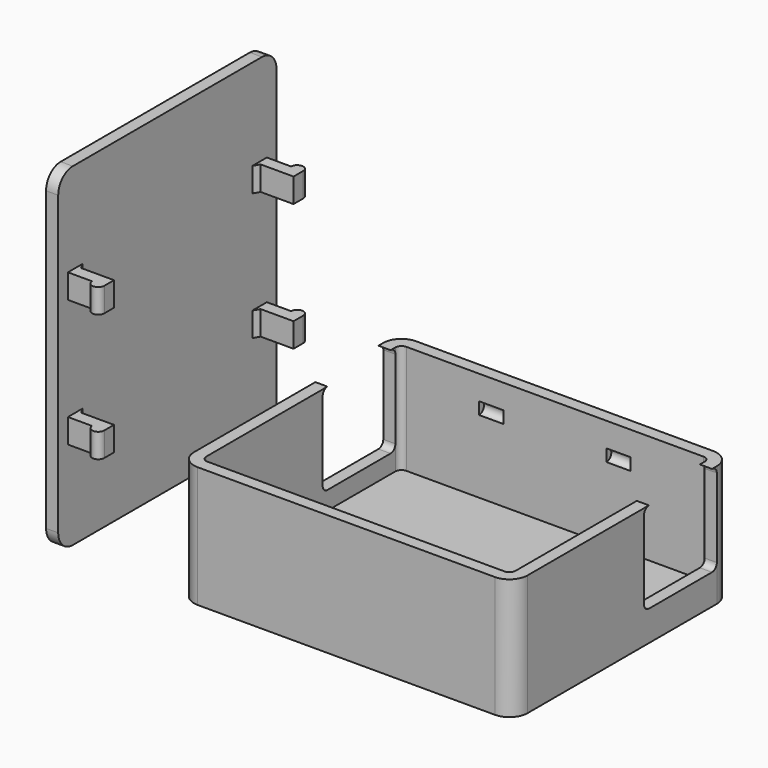
from build123d import *

# Parameters (mm, degrees)
BOX003_W                  = 2
BOX003_H                  = 4
BOX003_DEPTH              = 6
CYLINDER_R                = 1
CYLINDER_DEPTH            = 4
CYLINDER_ROLL_ANGLE       = 90
PRISM_DEPTH               = 4
PRISM_ROLL_ANGLE          = 90
FUSION001_ROLL_ANGLE      = 180
FUSION001_PLACEMENT_ANGLE = 90
CLONE001_PLACEMENT_ANGLE  = 180
CLONE002_PLACEMENT_ANGLE  = 180
BOX_W                     = 55
BOX_H                     = 45
BOX_DEPTH                 = 2
FILLET_R                  = 3
FUSION002_PITCH_ANGLE     = -90
BOX002_W                  = 60
BOX002_H                  = 15
BOX002_DEPTH              = 15
FILLET002_R               = 1
BOX001_W                  = 55
BOX001_H                  = 45
BOX001_DEPTH              = 20
FILLET001_R               = 3
THICKNESS_T               = -2


with BuildPart() as cube003:
    # Box003 → Box003 (new body)
    with BuildSketch(Plane.XY):
        with Locations((1, 2)):
            Rectangle(BOX003_W, BOX003_H)
    extrude(amount=BOX003_DEPTH)


with BuildPart() as fusion:
    # Cylinder → Cylinder (new body)
    with BuildSketch(Plane.XY):
        Circle(CYLINDER_R)
    extrude(amount=CYLINDER_DEPTH)


with BuildPart() as fusion_1:
    # Cylinder roll: moved
    add(fusion.part.rotate(Axis((0, 0, 0), (1, 0, 0)), CYLINDER_ROLL_ANGLE))


with BuildPart() as fusion_2:
    # Cylinder placement: moved
    add(fusion_1.part.moved(Location((0, 4, 5))))

    # Fusion: union Cube003
    add(cube003.part)


with BuildPart() as flange01:
    # Prism → Prism (new body)
    with BuildSketch(Plane.XY):
        Polygon((1, 0), (-0.5, 0.866025), (-0.5, -0.866025), align=None)
    extrude(amount=PRISM_DEPTH)


with BuildPart() as flange01_1:
    # Prism roll: moved
    add(flange01.part.rotate(Axis((0, 0, 0), (1, 0, 0)), PRISM_ROLL_ANGLE))


with BuildPart() as flange01_2:
    # Prism placement: moved
    add(flange01_1.part.moved(Location((2, 4, 0))))

    # Fusion001: union Fusion
    add(fusion_2.part)


with BuildPart() as flange01_3:
    # Fusion001 roll: moved
    add(flange01_2.part.rotate(Axis((0, 0, 0), (1, 0, 0)), FUSION001_ROLL_ANGLE))


with BuildPart() as flange01_4:
    # Fusion001 placement: moved
    add(flange01_3.part.moved(Location((15, 2, 20))).rotate(Axis((15, 2, 20), (0, 0, 1)), FUSION001_PLACEMENT_ANGLE))


with BuildPart() as flange02:
    # Clone base: copy of flange01
    add(flange01_4.part)


with BuildPart() as flange02_1:
    # Clone placement: moved
    add(flange02.part.moved(Location((21, 0, 0))))


with BuildPart() as flange03:
    # Clone001 base: copy of flange01
    add(flange01_4.part)


with BuildPart() as flange03_1:
    # Clone001 placement: moved
    add(flange03.part.moved(Location((34, 45, 0))).rotate(Axis((34, 45, 0), (0, 0, 1)), CLONE001_PLACEMENT_ANGLE))


with BuildPart() as flange04:
    # Clone002 base: copy of flange02
    add(flange02_1.part)


with BuildPart() as flange04_1:
    # Clone002 placement: moved
    add(flange04.part.moved(Location((76, 45, 0))).rotate(Axis((76, 45, 0), (0, 0, 1)), CLONE002_PLACEMENT_ANGLE))


with BuildPart() as top:
    # Box → Box (new body)
    with BuildSketch(Plane.XY):
        with Locations((27.5, 22.5)):
            Rectangle(BOX_W, BOX_H)
    extrude(amount=BOX_DEPTH)

    # Fillet
    fillet_edges = [top.edges().sort_by_distance(p)[0] for p in [
        (0, 0, 1),
        (0, 45, 1),
        (55, 0, 1),
        (55, 45, 1),
    ]]
    fillet(fillet_edges, radius=FILLET_R)


with BuildPart() as top_1:
    # Fillet placement: moved
    add(top.part.moved(Location((0, 0, 20))))

    # Fusion002: union flange01, flange02, flange03, flange04
    add(flange01_4.part)
    add(flange02_1.part)
    add(flange03_1.part)
    add(flange04_1.part)


with BuildPart() as top_2:
    # Fusion002 pitch: moved
    add(top_1.part.rotate(Axis((0, 0, 0), (0, 1, 0)), FUSION002_PITCH_ANGLE))


with BuildPart() as top_3:
    # Fusion002 placement: moved
    add(top_2.part)


with BuildPart() as clone_of_flange03:
    # Clone006 base: copy of flange03
    add(flange03_1.part)


with BuildPart() as clone_of_flange02:
    # Clone005 base: copy of flange02
    add(flange02_1.part)


with BuildPart() as clone_of_flange04:
    # Clone004 base: copy of flange04
    add(flange04_1.part)


with BuildPart() as clone_of_flange01:
    # Clone003 base: copy of flange01
    add(flange01_4.part)


with BuildPart() as fillet002:
    # Box002 → Box002 (new body)
    with BuildSketch(Plane(origin=(-2, 27, 5), x_dir=(1, 0, 0), z_dir=(0, 0, 1))):
        with Locations((30, 7.5)):
            Rectangle(BOX002_W, BOX002_H)
    extrude(amount=BOX002_DEPTH)

    # Fillet002
    fillet002_edges = [fillet002.edges().sort_by_distance(p)[0] for p in [
        (28, 27, 5),
        (28, 27, 20),
        (28, 42, 5),
        (28, 42, 20),
    ]]
    fillet(fillet002_edges, radius=FILLET002_R)


with BuildPart() as cut004:
    # Box001 → Box001 (new body)
    with BuildSketch(Plane.XY):
        with Locations((27.5, 22.5)):
            Rectangle(BOX001_W, BOX001_H)
    extrude(amount=BOX001_DEPTH)

    # Fillet001
    fillet001_edges = [cut004.edges().sort_by_distance(p)[0] for p in [
        (0, 0, 10),
        (0, 45, 10),
        (55, 0, 10),
        (55, 45, 10),
    ]]
    fillet(fillet001_edges, radius=FILLET001_R)

    # Thickness
    thickness_openings = [cut004.faces().sort_by_distance(p)[0] for p in [
        (27.5, 22.5, 20),
    ]]
    offset(amount=THICKNESS_T, openings=thickness_openings)

    # Cut: cut Fillet002
    add(fillet002.part, mode=Mode.SUBTRACT)

    # Cut001: cut Clone of flange01
    add(clone_of_flange01.part, mode=Mode.SUBTRACT)

    # Cut002: cut Clone of flange04
    add(clone_of_flange04.part, mode=Mode.SUBTRACT)

    # Cut003: cut Clone of flange02
    add(clone_of_flange02.part, mode=Mode.SUBTRACT)

    # Cut004: cut Clone of flange03
    add(clone_of_flange03.part, mode=Mode.SUBTRACT)


solid = Compound([top_3.part, cut004.part])
